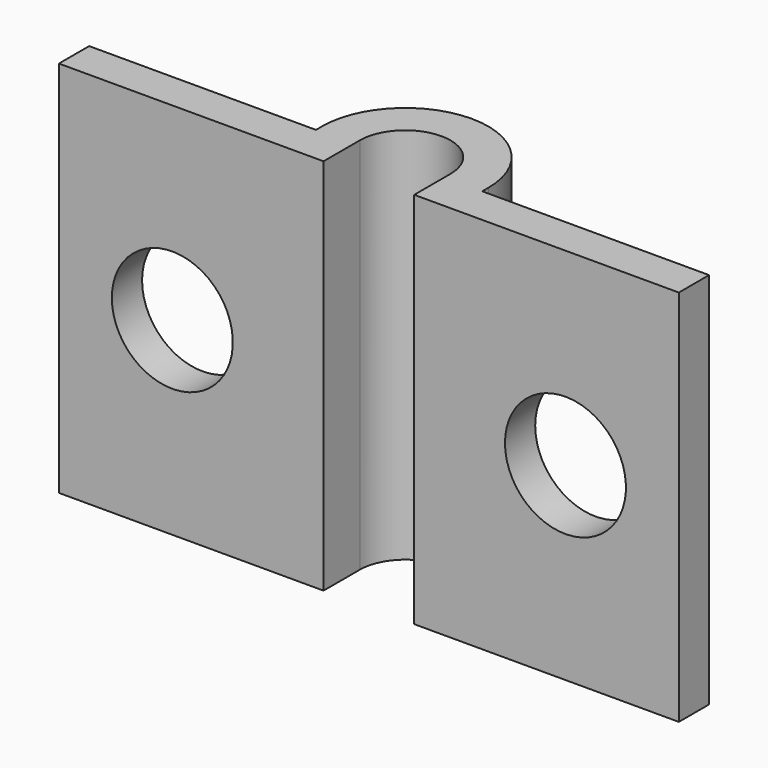
from build123d import *

# Parameters (mm, degrees)
F1_DEPTH = 25
F2_R     = 4
F3_DEPTH = 25


with BuildPart() as f1:
    # F0 (on Top) → F1 (new body)
    with BuildSketch(Plane.XY):
        with BuildLine():
            ThreePointArc((-3, 3), (0, 6), (3, 3))
            Line((3, 3), (3, 0))
            Line((3, 0), (5.5, 0))
            Line((5.5, 0), (20.5, 0))
            Line((20.5, 0), (20.5, 2.5))
            Line((20.5, 2.5), (5.5, 2.5))
            Line((5.5, 2.5), (5.5, 3))
            ThreePointArc((5.5, 3), (0, 8.5), (-5.5, 3))
            Line((-5.5, 3), (-5.5, 2.5))
            Line((-5.5, 2.5), (-20.5, 2.5))
            Line((-20.5, 2.5), (-20.5, 0))
            Line((-20.5, 0), (-5.5, 0))
            Line((-5.5, 0), (-3, 0))
            Line((-3, 0), (-3, 3))
        make_face()
    extrude(amount=F1_DEPTH)

    # F2 (on face) → F3 (cut)
    with BuildSketch(Plane(origin=(0, 2.5, 0), x_dir=(-1, 0, 0), z_dir=(0, 1, 0))):
        with Locations((13, 12.5)):
            Circle(F2_R)
        with Locations((-13, 12.5)):
            Circle(F2_R)
    extrude(amount=-F3_DEPTH, mode=Mode.SUBTRACT)


solid = f1.part
